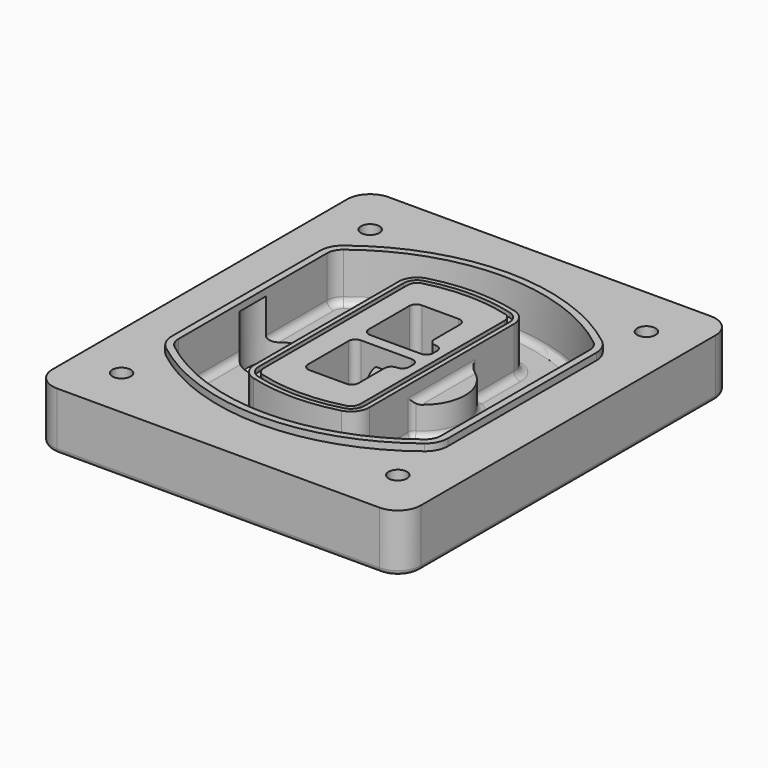
from build123d import *

# Parameters (mm, degrees)
F0_R      = 4
F1_DEPTH  = 25
F2_DEPTH  = 3
F3_DEPTH  = 18
F5_DEPTH  = 21
F6_DEPTH  = 2
F8_DEPTH  = 20
F9_DEPTH  = 16
F10_DEPTH = 25
F7_R      = 6
F7_R_2    = 4
F11_DEPTH = 6
F13_DEPTH = 9
F14_R     = 3
F15_R     = 2


with BuildPart() as f1:
    # F0 (on Top) → F1 (new body)
    with BuildSketch(Plane.XY):
        with BuildLine():
            ThreePointArc((-80, -80), (-77.0710678119, -87.0710678119), (-70, -90))
            Line((-70, -90), (70, -90))
            ThreePointArc((70, -90), (77.0710678119, -87.0710678119), (80, -80))
            Line((80, -80), (80, 80))
            ThreePointArc((80, 80), (77.0710678119, 87.0710678119), (70, 90))
            Line((70, 90), (-70, 90))
            ThreePointArc((-70, 90), (-77.0710678119, 87.0710678119), (-80, 80))
            Line((-80, 80), (-80, -80))
        make_face()
        with Locations((-60, -67.5)):
            Circle(F0_R, mode=Mode.SUBTRACT)
        with Locations((60, -67.5)):
            Circle(F0_R, mode=Mode.SUBTRACT)
        with Locations((-60, 67.5)):
            Circle(F0_R, mode=Mode.SUBTRACT)
        with BuildLine():
            ThreePointArc((-64, 40.2934422872), (-62.5820384798, 46.4328484224), (-58.6153846154, 51.3286200352))
            ThreePointArc((-58.6153846154, 51.3286200352), (0, 71.5), (58.6153846154, 51.3286200352))
            ThreePointArc((58.6153846154, 51.3286200352), (62.5820384798, 46.4328484224), (64, 40.2934422872))
            Line((64, 40.2934422872), (64, -40.2934422872))
            ThreePointArc((64, -40.2934422872), (62.5820384798, -46.4328484224), (58.6153846154, -51.3286200352))
            ThreePointArc((58.6153846154, -51.3286200352), (0, -71.5), (-58.6153846154, -51.3286200352))
            ThreePointArc((-58.6153846154, -51.3286200352), (-62.5820384798, -46.4328484224), (-64, -40.2934422872))
            Line((-64, -40.2934422872), (-64, 40.2934422872))
        make_face(mode=Mode.SUBTRACT)
        with Locations((60, 67.5)):
            Circle(F0_R, mode=Mode.SUBTRACT)
        with BuildLine():
            ThreePointArc((58.6153846154, 51.3286200352), (0, 71.5), (-58.6153846154, 51.3286200352))
            ThreePointArc((-58.6153846154, 51.3286200352), (-62.5820384798, 46.4328484224), (-64, 40.2934422872))
            Line((-64, 40.2934422872), (-64, -40.2934422872))
            ThreePointArc((-64, -40.2934422872), (-62.5820384798, -46.4328484224), (-58.6153846154, -51.3286200352))
            ThreePointArc((-58.6153846154, -51.3286200352), (0, -71.5), (58.6153846154, -51.3286200352))
            ThreePointArc((58.6153846154, -51.3286200352), (62.5820384798, -46.4328484224), (64, -40.2934422872))
            Line((64, -40.2934422872), (64, 40.2934422872))
            ThreePointArc((64, 40.2934422872), (62.5820384798, 46.4328484224), (58.6153846154, 51.3286200352))
        make_face()
        with BuildLine():
            Line((-60, -40.2934422872), (-60, 40.2934422872))
            ThreePointArc((-60, 40.2934422872), (-58.9871703427, 44.6787323838), (-56.1538461538, 48.1757121072))
            ThreePointArc((-56.1538461538, 48.1757121072), (0, 67.5), (56.1538461538, 48.1757121072))
            ThreePointArc((56.1538461538, 48.1757121072), (58.9871703427, 44.6787323838), (60, 40.2934422872))
            Line((60, 40.2934422872), (60, -40.2934422872))
            ThreePointArc((60, -40.2934422872), (58.9871703427, -44.6787323838), (56.1538461538, -48.1757121072))
            ThreePointArc((56.1538461538, -48.1757121072), (0, -67.5), (-56.1538461538, -48.1757121072))
            ThreePointArc((-56.1538461538, -48.1757121072), (-58.9871703427, -44.6787323838), (-60, -40.2934422872))
        make_face(mode=Mode.SUBTRACT)
        with BuildLine():
            ThreePointArc((-56.1538461538, 48.1757121072), (-58.9871703427, 44.6787323838), (-60, 40.2934422872))
            Line((-60, 40.2934422872), (-60, -40.2934422872))
            ThreePointArc((-60, -40.2934422872), (-58.9871703427, -44.6787323838), (-56.1538461538, -48.1757121072))
            ThreePointArc((-56.1538461538, -48.1757121072), (0, -67.5), (56.1538461538, -48.1757121072))
            ThreePointArc((56.1538461538, -48.1757121072), (58.9871703427, -44.6787323838), (60, -40.2934422872))
            Line((60, -40.2934422872), (60, 40.2934422872))
            ThreePointArc((60, 40.2934422872), (58.9871703427, 44.6787323838), (56.1538461538, 48.1757121072))
            ThreePointArc((56.1538461538, 48.1757121072), (0, 67.5), (-56.1538461538, 48.1757121072))
        make_face()
        with BuildLine():
            ThreePointArc((54.3076923077, 45.8110311612), (56.2910192399, 43.3631453548), (57, 40.2934422872))
            Line((57, 40.2934422872), (57, -40.2934422872))
            ThreePointArc((57, -40.2934422872), (56.2910192399, -43.3631453548), (54.3076923077, -45.8110311612))
            ThreePointArc((54.3076923077, -45.8110311612), (0, -64.5), (-54.3076923077, -45.8110311612))
            ThreePointArc((-54.3076923077, -45.8110311612), (-56.2910192399, -43.3631453548), (-57, -40.2934422872))
            Line((-57, -40.2934422872), (-57, 40.2934422872))
            ThreePointArc((-57, 40.2934422872), (-56.2910192399, 43.3631453548), (-54.3076923077, 45.8110311612))
            ThreePointArc((-54.3076923077, 45.8110311612), (0, 64.5), (54.3076923077, 45.8110311612))
        make_face(mode=Mode.SUBTRACT)
        with BuildLine():
            Line((57, -40.2934422872), (57, 40.2934422872))
            ThreePointArc((57, 40.2934422872), (56.2910192399, 43.3631453548), (54.3076923077, 45.8110311612))
            ThreePointArc((54.3076923077, 45.8110311612), (0, 64.5), (-54.3076923077, 45.8110311612))
            ThreePointArc((-54.3076923077, 45.8110311612), (-56.2910192399, 43.3631453548), (-57, 40.2934422872))
            Line((-57, 40.2934422872), (-57, -40.2934422872))
            ThreePointArc((-57, -40.2934422872), (-56.2910192399, -43.3631453548), (-54.3076923077, -45.8110311612))
            ThreePointArc((-54.3076923077, -45.8110311612), (0, -64.5), (54.3076923077, -45.8110311612))
            ThreePointArc((54.3076923077, -45.8110311612), (56.2910192399, -43.3631453548), (57, -40.2934422872))
        make_face()
    extrude(amount=-F1_DEPTH)

    # F0 (on Top) → F2 (join)
    with BuildSketch(Plane.XY):
        with BuildLine():
            ThreePointArc((-56.1538461538, 48.1757121072), (-58.9871703427, 44.6787323838), (-60, 40.2934422872))
            Line((-60, 40.2934422872), (-60, -40.2934422872))
            ThreePointArc((-60, -40.2934422872), (-58.9871703427, -44.6787323838), (-56.1538461538, -48.1757121072))
            ThreePointArc((-56.1538461538, -48.1757121072), (0, -67.5), (56.1538461538, -48.1757121072))
            ThreePointArc((56.1538461538, -48.1757121072), (58.9871703427, -44.6787323838), (60, -40.2934422872))
            Line((60, -40.2934422872), (60, 40.2934422872))
            ThreePointArc((60, 40.2934422872), (58.9871703427, 44.6787323838), (56.1538461538, 48.1757121072))
            ThreePointArc((56.1538461538, 48.1757121072), (0, 67.5), (-56.1538461538, 48.1757121072))
        make_face()
        with BuildLine():
            ThreePointArc((54.3076923077, 45.8110311612), (56.2910192399, 43.3631453548), (57, 40.2934422872))
            Line((57, 40.2934422872), (57, -40.2934422872))
            ThreePointArc((57, -40.2934422872), (56.2910192399, -43.3631453548), (54.3076923077, -45.8110311612))
            ThreePointArc((54.3076923077, -45.8110311612), (0, -64.5), (-54.3076923077, -45.8110311612))
            ThreePointArc((-54.3076923077, -45.8110311612), (-56.2910192399, -43.3631453548), (-57, -40.2934422872))
            Line((-57, -40.2934422872), (-57, 40.2934422872))
            ThreePointArc((-57, 40.2934422872), (-56.2910192399, 43.3631453548), (-54.3076923077, 45.8110311612))
            ThreePointArc((-54.3076923077, 45.8110311612), (0, 64.5), (54.3076923077, 45.8110311612))
        make_face(mode=Mode.SUBTRACT)
    extrude(amount=F2_DEPTH)

    # F0 (on Top) → F3 (cut)
    with BuildSketch(Plane.XY):
        with BuildLine():
            Line((57, -40.2934422872), (57, 40.2934422872))
            ThreePointArc((57, 40.2934422872), (56.2910192399, 43.3631453548), (54.3076923077, 45.8110311612))
            ThreePointArc((54.3076923077, 45.8110311612), (0, 64.5), (-54.3076923077, 45.8110311612))
            ThreePointArc((-54.3076923077, 45.8110311612), (-56.2910192399, 43.3631453548), (-57, 40.2934422872))
            Line((-57, 40.2934422872), (-57, -40.2934422872))
            ThreePointArc((-57, -40.2934422872), (-56.2910192399, -43.3631453548), (-54.3076923077, -45.8110311612))
            ThreePointArc((-54.3076923077, -45.8110311612), (0, -64.5), (54.3076923077, -45.8110311612))
            ThreePointArc((54.3076923077, -45.8110311612), (56.2910192399, -43.3631453548), (57, -40.2934422872))
        make_face()
    extrude(amount=-F3_DEPTH, mode=Mode.SUBTRACT)

    # F4 (on face) → F5 (join, through all)
    with BuildSketch(Plane.XY.offset(3)):
        with BuildLine():
            ThreePointArc((-25, -39.2465276821), (-23.3511545998, -44.1109737193), (-19.0842911877, -46.9702398883))
            ThreePointArc((-19.0842911877, -46.9702398883), (0, -49.5), (19.0842911877, -46.9702398883))
            ThreePointArc((19.0842911877, -46.9702398883), (23.3511545998, -44.1109737193), (25, -39.2465276821))
            Line((25, -39.2465276821), (25, 39.2465276821))
            ThreePointArc((25, 39.2465276821), (23.3511545998, 44.1109737193), (19.0842911877, 46.9702398883))
            ThreePointArc((19.0842911877, 46.9702398883), (0, 49.5), (-19.0842911877, 46.9702398883))
            ThreePointArc((-19.0842911877, 46.9702398883), (-23.3511545998, 44.1109737193), (-25, 39.2465276821))
            Line((-25, 39.2465276821), (-25, -39.2465276821))
        make_face()
        with BuildLine():
            ThreePointArc((18.5632183908, 45.0393118368), (21.7633659499, 42.89486221), (23, 39.2465276821))
            Line((23, 39.2465276821), (23, -39.2465276821))
            ThreePointArc((23, -39.2465276821), (21.7633659499, -42.89486221), (18.5632183908, -45.0393118368))
            ThreePointArc((18.5632183908, -45.0393118368), (0, -47.5), (-18.5632183908, -45.0393118368))
            ThreePointArc((-18.5632183908, -45.0393118368), (-21.7633659499, -42.89486221), (-23, -39.2465276821))
            Line((-23, -39.2465276821), (-23, 39.2465276821))
            ThreePointArc((-23, 39.2465276821), (-21.7633659499, 42.89486221), (-18.5632183908, 45.0393118368))
            ThreePointArc((-18.5632183908, 45.0393118368), (0, 47.5), (18.5632183908, 45.0393118368))
        make_face(mode=Mode.SUBTRACT)
        with BuildLine():
            Line((23, -39.2465276821), (23, 39.2465276821))
            ThreePointArc((23, 39.2465276821), (21.7633659499, 42.89486221), (18.5632183908, 45.0393118368))
            ThreePointArc((18.5632183908, 45.0393118368), (0, 47.5), (-18.5632183908, 45.0393118368))
            ThreePointArc((-18.5632183908, 45.0393118368), (-21.7633659499, 42.89486221), (-23, 39.2465276821))
            Line((-23, 39.2465276821), (-23, -39.2465276821))
            ThreePointArc((-23, -39.2465276821), (-21.7633659499, -42.89486221), (-18.5632183908, -45.0393118368))
            ThreePointArc((-18.5632183908, -45.0393118368), (0, -47.5), (18.5632183908, -45.0393118368))
            ThreePointArc((18.5632183908, -45.0393118368), (21.7633659499, -42.89486221), (23, -39.2465276821))
        make_face()
        with BuildLine():
            ThreePointArc((18.0421455939, 43.1083837852), (20.1755772999, 41.6787507007), (21, 39.2465276821))
            Line((21, 39.2465276821), (21, -39.2465276821))
            ThreePointArc((21, -39.2465276821), (20.1755772999, -41.6787507007), (18.0421455939, -43.1083837852))
            ThreePointArc((18.0421455939, -43.1083837852), (0, -45.5), (-18.0421455939, -43.1083837852))
            ThreePointArc((-18.0421455939, -43.1083837852), (-20.1755772999, -41.6787507007), (-21, -39.2465276821))
            Line((-21, -39.2465276821), (-21, 39.2465276821))
            ThreePointArc((-21, 39.2465276821), (-20.1755772999, 41.6787507007), (-18.0421455939, 43.1083837852))
            ThreePointArc((-18.0421455939, 43.1083837852), (0, 45.5), (18.0421455939, 43.1083837852))
        make_face(mode=Mode.SUBTRACT)
        with BuildLine():
            Line((21, -39.2465276821), (21, 39.2465276821))
            ThreePointArc((21, 39.2465276821), (20.1755772999, 41.6787507007), (18.0421455939, 43.1083837852))
            ThreePointArc((18.0421455939, 43.1083837852), (0, 45.5), (-18.0421455939, 43.1083837852))
            ThreePointArc((-18.0421455939, 43.1083837852), (-20.1755772999, 41.6787507007), (-21, 39.2465276821))
            Line((-21, 39.2465276821), (-21, -39.2465276821))
            ThreePointArc((-21, -39.2465276821), (-20.1755772999, -41.6787507007), (-18.0421455939, -43.1083837852))
            ThreePointArc((-18.0421455939, -43.1083837852), (0, -45.5), (18.0421455939, -43.1083837852))
            ThreePointArc((18.0421455939, -43.1083837852), (20.1755772999, -41.6787507007), (21, -39.2465276821))
        make_face()
        with BuildLine():
            Line((-8, -2.5), (14, -2.5))
            ThreePointArc((14, -2.5), (16.1213203436, -3.3786796564), (17, -5.5))
            Line((17, -5.5), (17, -7.5))
            ThreePointArc((17, -7.5), (16.1213203436, -9.6213203436), (14, -10.5))
            ThreePointArc((14, -10.5), (11.8786796564, -11.3786796564), (11, -13.5))
            Line((11, -13.5), (11, -27.5))
            ThreePointArc((11, -27.5), (10.1213203436, -29.6213203436), (8, -30.5))
            Line((8, -30.5), (-8, -30.5))
            ThreePointArc((-8, -30.5), (-10.1213203436, -29.6213203436), (-11, -27.5))
            Line((-11, -27.5), (-11, -5.5))
            ThreePointArc((-11, -5.5), (-10.1213203436, -3.3786796564), (-8, -2.5))
        make_face(mode=Mode.SUBTRACT)
        with BuildLine():
            ThreePointArc((-8, 2.5), (-10.1213203436, 3.3786796564), (-11, 5.5))
            Line((-11, 5.5), (-11, 27.5))
            ThreePointArc((-11, 27.5), (-10.1213203436, 29.6213203436), (-8, 30.5))
            Line((-8, 30.5), (8, 30.5))
            ThreePointArc((8, 30.5), (10.1213203436, 29.6213203436), (11, 27.5))
            Line((11, 27.5), (11, 13.5))
            ThreePointArc((11, 13.5), (11.8786796564, 11.3786796564), (14, 10.5))
            ThreePointArc((14, 10.5), (16.1213203436, 9.6213203436), (17, 7.5))
            Line((17, 7.5), (17, 5.5))
            ThreePointArc((17, 5.5), (16.1213203436, 3.3786796564), (14, 2.5))
            Line((14, 2.5), (-8, 2.5))
        make_face(mode=Mode.SUBTRACT)
    extrude(amount=-F5_DEPTH)

    # F4 (on face) → F6 (cut)
    with BuildSketch(Plane.XY.offset(3)):
        with BuildLine():
            Line((23, -39.2465276821), (23, 39.2465276821))
            ThreePointArc((23, 39.2465276821), (21.7633659499, 42.89486221), (18.5632183908, 45.0393118368))
            ThreePointArc((18.5632183908, 45.0393118368), (0, 47.5), (-18.5632183908, 45.0393118368))
            ThreePointArc((-18.5632183908, 45.0393118368), (-21.7633659499, 42.89486221), (-23, 39.2465276821))
            Line((-23, 39.2465276821), (-23, -39.2465276821))
            ThreePointArc((-23, -39.2465276821), (-21.7633659499, -42.89486221), (-18.5632183908, -45.0393118368))
            ThreePointArc((-18.5632183908, -45.0393118368), (0, -47.5), (18.5632183908, -45.0393118368))
            ThreePointArc((18.5632183908, -45.0393118368), (21.7633659499, -42.89486221), (23, -39.2465276821))
        make_face()
        with BuildLine():
            ThreePointArc((18.0421455939, 43.1083837852), (20.1755772999, 41.6787507007), (21, 39.2465276821))
            Line((21, 39.2465276821), (21, -39.2465276821))
            ThreePointArc((21, -39.2465276821), (20.1755772999, -41.6787507007), (18.0421455939, -43.1083837852))
            ThreePointArc((18.0421455939, -43.1083837852), (0, -45.5), (-18.0421455939, -43.1083837852))
            ThreePointArc((-18.0421455939, -43.1083837852), (-20.1755772999, -41.6787507007), (-21, -39.2465276821))
            Line((-21, -39.2465276821), (-21, 39.2465276821))
            ThreePointArc((-21, 39.2465276821), (-20.1755772999, 41.6787507007), (-18.0421455939, 43.1083837852))
            ThreePointArc((-18.0421455939, 43.1083837852), (0, 45.5), (18.0421455939, 43.1083837852))
        make_face(mode=Mode.SUBTRACT)
    extrude(amount=-F6_DEPTH, mode=Mode.SUBTRACT)

    # F7 (on face) → F8 (join)
    with BuildSketch(Plane(origin=(0, 0, -25), x_dir=(1, 0, 0), z_dir=(0, 0, -1))):
        with BuildLine():
            ThreePointArc((3.28842436, 0), (16.7567035675, 13.4682792075), (30.224982775, 0))
            Line((30.224982775, 0), (35.224982775, 0))
            ThreePointArc((35.224982775, 0), (16.7567035675, 18.4682792075), (-1.71157564, 0))
            Line((-1.71157564, 0), (3.28842436, 0))
        make_face()
        with BuildLine():
            Line((3.28842436, 0), (30.224982775, 0))
            ThreePointArc((30.224982775, 0), (16.7567035675, 13.4682792075), (3.28842436, 0))
        make_face()
        with BuildLine():
            ThreePointArc((3.28842436, 0), (16.7567035675, -13.4682792075), (30.224982775, 0))
            Line((30.224982775, 0), (3.28842436, 0))
        make_face()
        with BuildLine():
            Line((35.224982775, 0), (30.224982775, 0))
            ThreePointArc((30.224982775, 0), (16.7567035675, -13.4682792075), (3.28842436, 0))
            Line((3.28842436, 0), (-1.71157564, 0))
            ThreePointArc((-1.71157564, 0), (16.7567035675, -18.4682792075), (35.224982775, 0))
        make_face()
    extrude(amount=-F8_DEPTH)

    # F7 (on face) → F9 (cut)
    with BuildSketch(Plane(origin=(0, 0, -25), x_dir=(1, 0, 0), z_dir=(0, 0, -1))):
        with BuildLine():
            Line((3.28842436, 0), (30.224982775, 0))
            ThreePointArc((30.224982775, 0), (16.7567035675, 13.4682792075), (3.28842436, 0))
        make_face()
        with BuildLine():
            ThreePointArc((3.28842436, 0), (16.7567035675, -13.4682792075), (30.224982775, 0))
            Line((30.224982775, 0), (3.28842436, 0))
        make_face()
    extrude(amount=-F9_DEPTH, mode=Mode.SUBTRACT)

    # F7 (on face) → F10 (cut)
    with BuildSketch(Plane(origin=(0, 0, -25), x_dir=(1, 0, 0), z_dir=(0, 0, -1))):
        with BuildLine():
            Line((-59.0318229325, 0), (-32.0952645175, 0))
            ThreePointArc((-32.0952645175, 0), (-45.563543725, 13.4682792075), (-59.0318229325, 0))
        make_face()
        with BuildLine():
            ThreePointArc((-59.0318229325, 0), (-45.563543725, -13.4682792075), (-32.0952645175, 0))
            Line((-32.0952645175, 0), (-59.0318229325, 0))
        make_face()
    extrude(amount=-F10_DEPTH, mode=Mode.SUBTRACT)

    # F7 (on face) → F11 (cut)
    with BuildSketch(Plane(origin=(0, 0, -25), x_dir=(1, 0, 0), z_dir=(0, 0, -1))):
        with Locations((60, -67.5)):
            Circle(F7_R)
        with Locations((60, -67.5)):
            Circle(F7_R_2, mode=Mode.SUBTRACT)
        with Locations((60, -67.5)):
            Circle(F7_R)
        with Locations((60, -67.5)):
            Circle(F7_R_2, mode=Mode.SUBTRACT)
        with Locations((-60, -67.5)):
            Circle(F7_R)
        with Locations((-60, -67.5)):
            Circle(F7_R_2, mode=Mode.SUBTRACT)
        with Locations((-60, -67.5)):
            Circle(F7_R)
        with Locations((-60, -67.5)):
            Circle(F7_R_2, mode=Mode.SUBTRACT)
        with Locations((-60, 67.5)):
            Circle(F7_R)
        with Locations((-60, 67.5)):
            Circle(F7_R_2, mode=Mode.SUBTRACT)
        with Locations((-60, 67.5)):
            Circle(F7_R)
        with Locations((-60, 67.5)):
            Circle(F7_R_2, mode=Mode.SUBTRACT)
        with Locations((60, 67.5)):
            Circle(F7_R)
        with Locations((60, 67.5)):
            Circle(F7_R_2, mode=Mode.SUBTRACT)
        with Locations((60, 67.5)):
            Circle(F7_R)
        with Locations((60, 67.5)):
            Circle(F7_R_2, mode=Mode.SUBTRACT)
    extrude(amount=-F11_DEPTH, mode=Mode.SUBTRACT)

    # F12 (on face) → F13 (cut, through all)
    with BuildSketch(Plane(origin=(0, 0, -9), x_dir=(1, 0, 0), z_dir=(0, 0, -1))):
        with BuildLine():
            Line((11, 13.5), (11, 17.5481537753))
            ThreePointArc((11, 17.5481537753), (2.5696536419, 11.8239143813), (-1.5415842455, 2.5))
            Line((-1.5415842455, 2.5), (3.5224848595, 2.5))
            ThreePointArc((3.5224848595, 2.5), (6.1857188154, 8.3455872281), (11.2536447004, 12.2927168648))
            ThreePointArc((11.2536447004, 12.2927168648), (11.0640958889, 12.8831798879), (11, 13.5))
        make_face()
        with BuildLine():
            ThreePointArc((11.2536447004, -12.2927168648), (6.1857188154, -8.3455872281), (3.5224848595, -2.5))
            Line((3.5224848595, -2.5), (-1.5415842455, -2.5))
            ThreePointArc((-1.5415842455, -2.5), (2.5696536419, -11.8239143813), (11, -17.5481537753))
            Line((11, -17.5481537753), (11, -13.5))
            ThreePointArc((11, -13.5), (11.0640958889, -12.8831798879), (11.2536447004, -12.2927168648))
        make_face()
        with BuildLine():
            ThreePointArc((11.2536447004, 12.2927168648), (6.1857188154, 8.3455872281), (3.5224848595, 2.5))
            Line((3.5224848595, 2.5), (14, 2.5))
            ThreePointArc((14, 2.5), (16.1213203436, 3.3786796564), (17, 5.5))
            Line((17, 5.5), (17, 7.5))
            ThreePointArc((17, 7.5), (16.1213203436, 9.6213203436), (14, 10.5))
            ThreePointArc((14, 10.5), (12.3601599782, 10.9878446101), (11.2536447004, 12.2927168648))
        make_face()
        with BuildLine():
            Line((14, -2.5), (3.5224848595, -2.5))
            ThreePointArc((3.5224848595, -2.5), (6.1857188154, -8.3455872281), (11.2536447004, -12.2927168648))
            ThreePointArc((11.2536447004, -12.2927168648), (12.3601599782, -10.9878446101), (14, -10.5))
            ThreePointArc((14, -10.5), (16.1213203436, -9.6213203436), (17, -7.5))
            Line((17, -7.5), (17, -5.5))
            ThreePointArc((17, -5.5), (16.1213203436, -3.3786796564), (14, -2.5))
        make_face()
    extrude(amount=F13_DEPTH, mode=Mode.SUBTRACT)

    # F14
    f14_edges = [f1.edges().sort_by_distance(p)[0] for p in [
        (-57, -23.703476, -18),
        (-57, 23.703476, -18),
        (25, 0, -5),
        (25, 16.526506, -11.5),
        (25, -16.526506, -11.5),
        (25, -27.886517, -18),
        (35.224983, 0, -18),
    ]]
    fillet(f14_edges, radius=F14_R)

    # F15
    f15_edges = [f1.edges().sort_by_distance(p)[0] for p in [
        (0, -90, -25),
    ]]
    fillet(f15_edges, radius=F15_R)


solid = f1.part
